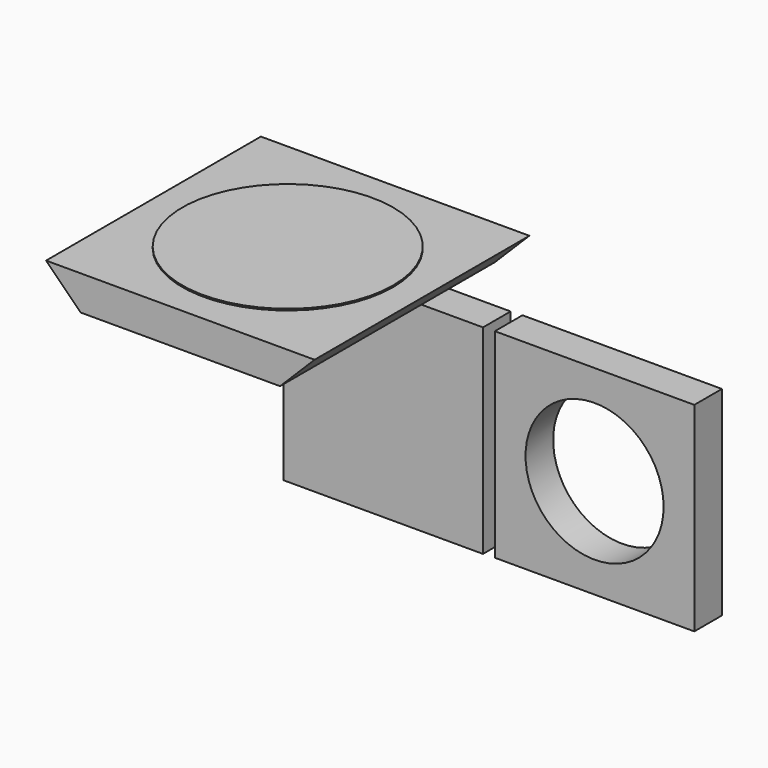
from build123d import *

# Parameters (mm, degrees)
F1_DEPTH = 140
F2_W     = 104
F2_H     = 104
F3_DEPTH = 18
F4_W     = 104
F4_H     = 104
F4_R     = 36
F5_DEPTH = 18
F6_R     = 55
F7_DEPTH = 0.8


with BuildPart() as f1:
    # F0 (on Front) → F1 (new body)
    with BuildSketch(Plane.XZ):
        Polygon((-70, 18), (-52, 0), (52, 0), (70, 18), align=None)
    extrude(amount=F1_DEPTH)


with BuildPart() as f3:
    # F2 (on Front) → F3 (new body)
    with BuildSketch(Plane.XZ):
        with Locations((8.215694, -71.922896)):
            Rectangle(F2_W, F2_H)
    extrude(amount=F3_DEPTH)


with BuildPart() as f5:
    # F4 (on Front) → F5 (new body)
    with BuildSketch(Plane.XZ):
        with Locations((118.401412, -71.662202)):
            Rectangle(F4_W, F4_H)
        with Locations((118.401412, -71.662202)):
            Circle(F4_R, mode=Mode.SUBTRACT)
    extrude(amount=F5_DEPTH)


with BuildPart() as f7:
    # F6 (on face) → F7 (new body)
    with BuildSketch(Plane.XY.offset(18)):
        with Locations((0, -70)):
            Circle(F6_R)
    extrude(amount=F7_DEPTH)


solid = Compound([f1.part, f3.part, f5.part, f7.part])
